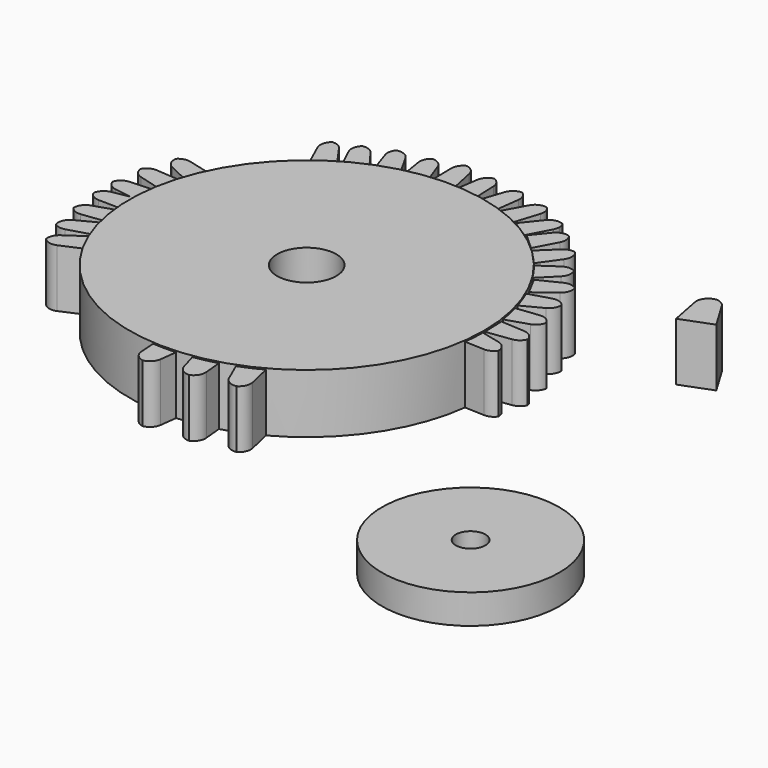
from build123d import *

# Parameters (mm, degrees)
F0_R     = 38.1
F0_R_2   = 6.35
F1_DEPTH = 12.7
F2_R     = 19.05
F2_R_2   = 3.175
F3_DEPTH = 6.35
F5_DEPTH = 12.446


with BuildPart() as f1:
    # F0 (on Top) → F1 (new body)
    with BuildSketch(Plane.XY):
        with Locations((-39.0832275152, 21.9382271171)):
            Circle(F0_R)
        with Locations((-39.0832275152, 21.9382271171)):
            Circle(F0_R_2, mode=Mode.SUBTRACT)
    extrude(amount=F1_DEPTH)

    # F4 (on Top) → F5, piece 7 (join)
    with BuildSketch(Plane.XY):
        with BuildLine():
            Line((-32.5902639339, 58.8768613597), (-32.7968000961, 64.1977607787))
            ThreePointArc((-32.7968000961, 64.1977607787), (-33.2857626776, 65.6080237601), (-34.4765884478, 66.5079460166))
            ThreePointArc((-34.4765884478, 66.5079460166), (-34.8377709698, 66.3903442203), (-35.1776486028, 66.2207382318))
            ThreePointArc((-35.1776486028, 66.2207382318), (-35.9932894295, 65.4497359948), (-36.4020807786, 64.4044589786))
            Line((-36.4020807786, 64.4044589786), (-37.1822439037, 59.3260840908))
            Line((-37.1822439037, 59.3260840908), (-32.5902639339, 58.8768613597))
        make_face()
        with BuildLine():
            Line((-37.1657389185, -19.6727195815), (-36.4962417478, -14.3900686038))
            Line((-36.4962417478, -14.3900686038), (-41.7507249339, -14.3900686038))
            Line((-41.7507249339, -14.3900686038), (-41.4161401004, -19.5171144386))
            ThreePointArc((-41.4161401004, -19.5171144386), (-40.7605144058, -21.069639707), (-39.2834776869, -21.8811458939))
            ThreePointArc((-39.2834776869, -21.8811458939), (-37.8596787946, -21.1268766605), (-37.1657389185, -19.6727195815))
        make_face()
        with BuildLine():
            Line((-27.1659549103, 57.7298280924), (-26.4761164301, 63.009861301))
            ThreePointArc((-26.4761164301, 63.009861301), (-26.695889195, 64.4293290048), (-27.6437212477, 65.5085894137))
            ThreePointArc((-27.6437212477, 65.5085894137), (-29.1150240782, 65.0089671398), (-30.0286580656, 63.7521348627))
            Line((-30.0286580656, 63.7521348627), (-31.6504639339, 58.8768613597))
            Line((-31.6504639339, 58.8768613597), (-27.1659549103, 57.7298280924))
        make_face()
        with BuildLine():
            Line((-19.8659732743, -16.5818092471), (-21.0436247678, -11.388759587))
            Line((-21.0436247678, -11.388759587), (-25.9812238439, -13.1858986794))
            Line((-25.9812238439, -13.1858986794), (-23.9132639935, -17.8893110641))
            ThreePointArc((-23.9132639935, -17.8893110641), (-22.7661824515, -19.1239704083), (-21.1006704837, -19.3813604736))
            ThreePointArc((-21.1006704837, -19.3813604736), (-20.0207124425, -18.1856113397), (-19.8659732743, -16.5818092471))
        make_face()
        with BuildLine():
            Line((-28.2646213524, -18.5420449877), (-28.7667002501, -13.2408616675))
            Line((-28.7667002501, -13.2408616675), (-33.8939721339, -14.3900686038))
            Line((-33.8939721339, -14.3900686038), (-32.4461524765, -19.3198114209))
            ThreePointArc((-32.4461524765, -19.3198114209), (-31.4668470311, -20.6913582137), (-29.8480850943, -21.1601753982))
            ThreePointArc((-29.8480850943, -21.1601753982), (-28.6237225136, -20.1127682982), (-28.2646213524, -18.5420449877))
        make_face()
        with BuildLine():
            Line((-37.732375604, 60.0880415387), (-38.8117459881, 65.2290738953))
            ThreePointArc((-38.8117459881, 65.2290738953), (-39.5842572753, 66.5804833326), (-41.0012539781, 67.2248446446))
            ThreePointArc((-41.0012539781, 67.2248446446), (-41.6782169262, 66.7385713638), (-42.1606730542, 66.0588827431))
            ThreePointArc((-42.1606730542, 66.0588827431), (-42.3549894884, 65.5008061804), (-42.4146957853, 64.912891659))
            Line((-42.4146957853, 64.912891659), (-42.3350351339, 59.84483356))
            Line((-42.3350351339, 59.84483356), (-37.732375604, 60.0880415387))
        make_face()
        with BuildLine():
            Line((-42.7756513749, 59.0147243093), (-44.5776590771, 63.9490958355))
            ThreePointArc((-44.5776590771, 63.9490958355), (-45.5643411122, 65.195945884), (-47.0997836728, 65.6089744844))
            ThreePointArc((-47.0997836728, 65.6089744844), (-47.932944264, 64.5310338281), (-48.0870966829, 63.1773907212))
            Line((-48.0870966829, 63.1773907212), (-47.2849802658, 58.1725762424))
            Line((-47.2849802658, 58.1725762424), (-42.7756513749, 59.0147243093))
        make_face()
        with BuildLine():
            Line((-48.1775970889, 58.4666157758), (-50.7522821557, 63.045507664))
            ThreePointArc((-50.7522821557, 63.045507664), (-52.0316560609, 64.1606385723), (-53.7278462198, 64.2176778292))
            ThreePointArc((-53.7278462198, 64.2176778292), (-54.2437061065, 63.0809177273), (-54.1539039861, 61.8358191243))
            Line((-54.1539039861, 61.8358191243), (-52.5546364636, 57.0260476011))
            Line((-52.5546364636, 57.0260476011), (-48.1775970889, 58.4666157758))
        make_face()
        with BuildLine():
            Line((-53.4363616694, 56.7008019991), (-56.5602979347, 60.92410359))
            ThreePointArc((-56.5602979347, 60.92410359), (-57.701500253, 61.7872554065), (-59.1283626629, 61.8942014341))
            ThreePointArc((-59.1283626629, 61.8942014341), (-59.8893688974, 60.5135928445), (-59.6863041805, 58.9502709686))
            Line((-59.6863041805, 58.9502709686), (-57.7558105536, 54.9089614324))
            Line((-57.7558105536, 54.9089614324), (-53.4363616694, 56.7008019991))
        make_face()
        Polygon((-1.8199156326, 21.8109711398), (-1.912992251, 21.0945862702), (1.4312820146, 21.0297519702), align=None)
        with BuildLine():
            Line((1.4312820146, 21.0297519702), (-1.912992251, 21.0945862702))
            Line((-1.912992251, 21.0945862702), (-2.4131862692, 17.2447318965))
            Line((-2.4131862692, 17.2447318965), (2.9064281262, 17.0073914279))
            ThreePointArc((2.9064281262, 17.0073914279), (4.1705791625, 17.2766650627), (5.143330876, 18.1277468666))
            ThreePointArc((5.143330876, 18.1277468666), (4.5881722375, 19.7087850965), (3.175838125, 20.6105585456))
            Line((3.175838125, 20.6105585456), (1.4312820146, 21.0297519702))
        make_face()
        with BuildLine():
            Line((-76.1307959695, 27.6414884346), (-81.4504508676, 27.405057517))
            ThreePointArc((-81.4504508676, 27.405057517), (-82.3305447034, 27.2073219959), (-83.0879235816, 26.7173814576))
            ThreePointArc((-83.0879235816, 26.7173814576), (-83.4793018496, 26.2542831186), (-83.7511609421, 25.7123148038))
            ThreePointArc((-83.7511609421, 25.7123148038), (-82.9841510931, 24.4349492977), (-81.6368878122, 23.798672317))
            Line((-81.6368878122, 23.798672317), (-77.9046608261, 23.246758634))
            Line((-77.9046608261, 23.246758634), (-76.5133547145, 23.4903680812))
            Line((-76.5133547145, 23.4903680812), (-76.1307959695, 27.6414884346))
        make_face()
        with BuildLine():
            Line((-76.4624886999, 23.4992744187), (-76.5133547145, 23.4903680812))
            Line((-76.5133547145, 23.4903680812), (-76.5542093752, 23.0470567839))
            Line((-76.5542093752, 23.0470567839), (-77.9046608261, 23.246758634))
            Line((-77.9046608261, 23.246758634), (-81.6368878122, 22.5932678273))
            ThreePointArc((-81.6368878122, 22.5932678273), (-82.4145193167, 22.3210645939), (-83.0636387719, 21.813669984))
            Line((-83.0636387719, 21.813669984), (-76.4301509602, 21.813669984))
            Line((-76.4301509602, 21.813669984), (-76.4624886999, 23.4992744187))
        make_face()
        Polygon((-76.5542093752, 23.0470567839), (-76.5133547145, 23.4903680812), (-77.9046608261, 23.246758634), align=None)
        with BuildLine():
            Line((-76.3740813443, 18.8910416762), (-76.4301509602, 21.813669984))
            Line((-76.4301509602, 21.813669984), (-83.0636387719, 21.813669984))
            ThreePointArc((-83.0636387719, 21.813669984), (-83.4850544754, 21.1910045821), (-83.705105555, 20.4720602725))
            ThreePointArc((-83.705105555, 20.4720602725), (-83.4351980526, 20.0110458177), (-83.0745981832, 19.6168984828))
            ThreePointArc((-83.0745981832, 19.6168984828), (-82.3149412475, 19.153661166), (-81.4419541416, 18.9817280847))
            Line((-81.4419541416, 18.9817280847), (-76.3740813443, 18.8910416762))
        make_face()
        with BuildLine():
            Line((-75.2259238681, 33.1208603284), (-80.5353550482, 33.5265305851))
            ThreePointArc((-80.5353550482, 33.5265305851), (-81.9409931433, 33.2309461204), (-82.9678667527, 32.2265959719))
            ThreePointArc((-82.9678667527, 32.2265959719), (-82.3900555488, 30.7842060633), (-81.08603266, 29.9392926114))
            Line((-81.08603266, 29.9392926114), (-76.1307959695, 28.5812884346))
            Line((-76.1307959695, 28.5812884346), (-75.2259238681, 33.1208603284))
        make_face()
        with BuildLine():
            Line((-72.9713488901, 38.1437071088), (-78.1240694877, 39.4868743568))
            ThreePointArc((-78.1240694877, 39.4868743568), (-79.1371155732, 39.5437491156), (-80.0930820652, 39.2037120949))
            ThreePointArc((-80.0930820652, 39.2037120949), (-80.375403838, 39.0073654903), (-80.6289522735, 38.7750494053))
            ThreePointArc((-80.6289522735, 38.7750494053), (-80.3831490694, 37.1557925231), (-79.2083380883, 36.0146390607))
            Line((-79.2083380883, 36.0146390607), (-74.5734839125, 33.7972819014))
            Line((-74.5734839125, 33.7972819014), (-72.9713488901, 38.1437071088))
        make_face()
        with BuildLine():
            Line((-58.5973468813, 54.490582837), (-61.6741725858, 58.8365892104))
            ThreePointArc((-61.6741725858, 58.8365892104), (-62.0503936724, 59.2598977525), (-62.5102691515, 59.590423049))
            ThreePointArc((-62.5102691515, 59.590423049), (-63.1972939756, 59.8558892185), (-63.9314172238, 59.9153741126))
            ThreePointArc((-63.9314172238, 59.9153741126), (-64.8391482134, 58.5068616175), (-64.6845502162, 56.8383345851))
            Line((-64.6845502162, 56.8383345851), (-62.5668944105, 52.1570868998))
            Line((-62.5668944105, 52.1570868998), (-58.5973468813, 54.490582837))
        make_face()
        with BuildLine():
            Line((-76.2222555489, 18.2430579464), (-81.2143933391, 16.6078777113))
            ThreePointArc((-81.2143933391, 16.6078777113), (-82.4936947392, 15.6636508268), (-82.9580855969, 14.1429544032))
            ThreePointArc((-82.9580855969, 14.1429544032), (-81.9087504124, 13.2740422674), (-80.5610517506, 13.0744904044))
            Line((-80.5610517506, 13.0744904044), (-75.5321101595, 13.7079769378))
            Line((-75.5321101595, 13.7079769378), (-76.2222555489, 18.2430579464))
        make_face()
        with BuildLine():
            Line((-75.5977085244, 13.0221898308), (-80.2605317257, 10.6028234032))
            ThreePointArc((-80.2605317257, 10.6028234032), (-81.4180237044, 9.3616437824), (-81.5320278657, 7.6683282232))
            ThreePointArc((-81.5320278657, 7.6683282232), (-80.4132441904, 7.1145610881), (-79.165831123, 7.1624734166))
            Line((-79.165831123, 7.1624734166), (-74.305035652, 8.5992149044))
            Line((-74.305035652, 8.5992149044), (-75.5977085244, 13.0221898308))
        make_face()
        with BuildLine():
            Line((-74.0978867272, 7.9736616415), (-78.4237769482, 4.9934052912))
            ThreePointArc((-78.4237769482, 4.9934052912), (-79.3247891551, 3.881851967), (-79.4796216761, 2.4593890747))
            ThreePointArc((-79.4796216761, 2.4593890747), (-78.1253648828, 1.6524199896), (-76.5561022906, 1.8028376867))
            Line((-76.5561022906, 1.8028376867), (-72.4522046262, 3.5964408677))
            Line((-72.4522046262, 3.5964408677), (-74.0978867272, 7.9736616415))
        make_face()
        with BuildLine():
            Line((-3.0411785083, 32.7470144674), (1.6844129307, 35.2012787899))
            ThreePointArc((1.6844129307, 35.2012787899), (2.7518572392, 36.2445854232), (3.0585286331, 37.7053656048))
            ThreePointArc((3.0585286331, 37.7053656048), (2.7982266481, 37.9819987072), (2.4999573132, 38.2171973478))
            ThreePointArc((2.4999573132, 38.2171973478), (1.4548898263, 38.6265240577), (0.3350696216, 38.5509124385))
            Line((0.3350696216, 38.5509124385), (-4.5915863406, 37.0926233613))
            Line((-4.5915863406, 37.0926233613), (-3.0411785083, 32.7470144674))
        make_face()
        with BuildLine():
            Line((-1.7673675837, 27.3510697467), (3.3032300919, 28.9770054851))
            ThreePointArc((3.3032300919, 28.9770054851), (4.4937126383, 29.7807093715), (5.0661720754, 31.098085105))
            ThreePointArc((5.0661720754, 31.098085105), (3.9872108552, 32.2162072456), (2.4608741993, 32.5071554341))
            Line((2.4608741993, 32.5071554341), (-2.6406972077, 31.8968152155))
            Line((-2.6406972077, 31.8968152155), (-1.7673675837, 27.3510697467))
        make_face()
        with BuildLine():
            Line((-7.2568054853, 42.0200729007), (-3.5607759134, 45.7529832292))
            ThreePointArc((-3.5607759134, 45.7529832292), (-2.8532601933, 47.1769207235), (-3.1339150418, 48.7419796162))
            ThreePointArc((-3.1339150418, 48.7419796162), (-4.4641231464, 49.0363586706), (-5.7543992881, 48.5989799934))
            Line((-5.7543992881, 48.5989799934), (-9.940244042, 45.7406129052))
            Line((-9.940244042, 45.7406129052), (-7.2568054853, 42.0200729007))
        make_face()
        with BuildLine():
            Line((-10.0546132214, 46.6734278551), (-7.0094363397, 50.953866136))
            ThreePointArc((-7.0094363397, 50.953866136), (-6.5458077609, 52.5864601066), (-7.2170119611, 54.1452415067))
            ThreePointArc((-7.2170119611, 54.1452415067), (-8.4652188418, 54.1275063776), (-9.5533416667, 53.5156864123))
            Line((-9.5533416667, 53.5156864123), (-13.2230452347, 50.0192833409))
            Line((-13.2230452347, 50.0192833409), (-10.0546132214, 46.6734278551))
        make_face()
    extrude(amount=F5_DEPTH)


with BuildPart() as f3:
    # F2 (on Top) → F3 (new body)
    with BuildSketch(Plane.XY):
        with Locations((37.1167734265, -29.3124187738)):
            Circle(F2_R)
        with Locations((37.1167734265, -29.3124187738)):
            Circle(F2_R_2, mode=Mode.SUBTRACT)
    extrude(amount=F3_DEPTH)


with BuildPart() as f5:
    # F4 (on Top) → F5 (new body)
    with BuildSketch(Plane.XY):
        with BuildLine():
            ThreePointArc((24.2301179789, 54.2364436712), (23.3706651413, 55.1042148373), (22.2074949339, 55.4766675802))
            ThreePointArc((22.2074949339, 55.4766675802), (20.3501035651, 54.4791900405), (19.8658656741, 52.4272695244))
            Line((19.8658656741, 52.4272695244), (21.1483882829, 45.8069068912))
            Line((21.1483882829, 45.8069068912), (27.7664579421, 48.3425437325))
            Line((27.7664579421, 48.3425437325), (24.2301179789, 54.2364436712))
        make_face()
    extrude(amount=F5_DEPTH)

    # F4 (on Top) → F5, piece 2 (join)
    with BuildSketch(Plane.XY):
        with BuildLine():
            Line((22.3863615574, 55.4829059408), (22.0286283105, 55.4829059408))
            ThreePointArc((22.0286283105, 55.4829059408), (22.1181159998, 55.4813458767), (22.2074949339, 55.4766675802))
            ThreePointArc((22.2074949339, 55.4766675802), (22.2968738681, 55.4813458767), (22.3863615574, 55.4829059408))
        make_face()
    extrude(amount=F5_DEPTH)


with BuildPart() as f5b:
    # F4 (on Top) → F5, piece 3 (new body)
    with BuildSketch(Plane.XY):
        with BuildLine():
            Line((-22.0375046613, 56.251506315), (-20.4199230362, 61.3247752315))
            ThreePointArc((-20.4199230362, 61.3247752315), (-20.3621192022, 62.6722398512), (-20.9952973801, 63.8630746758))
            ThreePointArc((-20.9952973801, 63.8630746758), (-22.6280433418, 63.7066637803), (-23.8328854339, 62.5937040881))
            Line((-23.8328854339, 62.5937040881), (-26.2956249532, 58.0844402831))
            Line((-26.2956249532, 58.0844402831), (-22.0375046613, 56.251506315))
        make_face()
    extrude(amount=F5_DEPTH)


with BuildPart() as f5c:
    # F4 (on Top) → F5, piece 4 (new body)
    with BuildSketch(Plane.XY):
        with BuildLine():
            Line((-17.668837812, 53.618918659), (-15.1872536658, 58.3302208079))
            ThreePointArc((-15.1872536658, 58.3302208079), (-14.9553007351, 58.9575027796), (-14.8932322123, 59.6234099297))
            ThreePointArc((-14.8932322123, 59.6234099297), (-14.9952283367, 60.2493974811), (-15.2475724924, 60.831278956))
            ThreePointArc((-15.2475724924, 60.831278956), (-16.9144464803, 61.0027843694), (-18.3320890787, 60.1093793875))
            Line((-18.3320890787, 60.1093793875), (-21.546917608, 56.1014592872))
            Line((-21.546917608, 56.1014592872), (-17.668837812, 53.618918659))
        make_face()
    extrude(amount=F5_DEPTH)


with BuildPart() as f5d:
    # F4 (on Top) → F5, piece 5 (new body)
    with BuildSketch(Plane.XY):
        with BuildLine():
            Line((-0.9209870408, 22.0851087457), (4.3579027552, 22.7836431641))
            ThreePointArc((4.3579027552, 22.7836431641), (5.602156431, 23.3060395755), (6.4095949071, 24.3872927039))
            ThreePointArc((6.4095949071, 24.3872927039), (5.5714640601, 25.7943992205), (4.0531215966, 26.408441751))
            Line((4.0531215966, 26.408441751), (-1.0756864894, 26.7148297733))
            Line((-1.0756864894, 26.7148297733), (-0.9209870408, 22.0851087457))
        make_face()
    extrude(amount=F5_DEPTH)


with BuildPart() as f5e:
    # F4 (on Top) → F5, piece 6 (new body)
    with BuildSketch(Plane.XY):
        with BuildLine():
            Line((-4.1367042451, 37.9150018139), (0.0542238333, 41.0822365635))
            ThreePointArc((0.0542238333, 41.0822365635), (0.9475957928, 42.356978772), (0.9266922206, 43.9134633356))
            ThreePointArc((0.9266922206, 43.9134633356), (0.1983030087, 44.3186666087), (-0.6221751936, 44.4654864175))
            ThreePointArc((-0.6221751936, 44.4654864175), (-1.2098495651, 44.4034609432), (-1.7671551001, 44.2069441065))
            Line((-1.7671551001, 44.2069441065), (-6.3180772142, 41.97520339))
            Line((-6.3180772142, 41.97520339), (-4.1367042451, 37.9150018139))
        make_face()
    extrude(amount=F5_DEPTH)


with BuildPart() as f5f:
    # F4 (on Top) → F5, piece 8 (new body)
    with BuildSketch(Plane.XY):
        with BuildLine():
            Line((-13.8930154673, 50.6783462571), (-11.4035817641, 55.3041406704))
            ThreePointArc((-11.4035817641, 55.3041406704), (-11.1090288379, 56.7043593545), (-11.6203145169, 58.0407577772))
            ThreePointArc((-11.6203145169, 58.0407577772), (-13.1935866562, 58.140884408), (-14.5213281622, 57.2909943798))
            Line((-14.5213281622, 57.2909943798), (-17.354688181, 53.8224126213))
            Line((-17.354688181, 53.8224126213), (-13.8930154673, 50.6783462571))
        make_face()
    extrude(amount=F5_DEPTH)


solid = Compound([f1.part, f3.part, f5.part, f5b.part, f5c.part, f5d.part, f5e.part, f5f.part])
